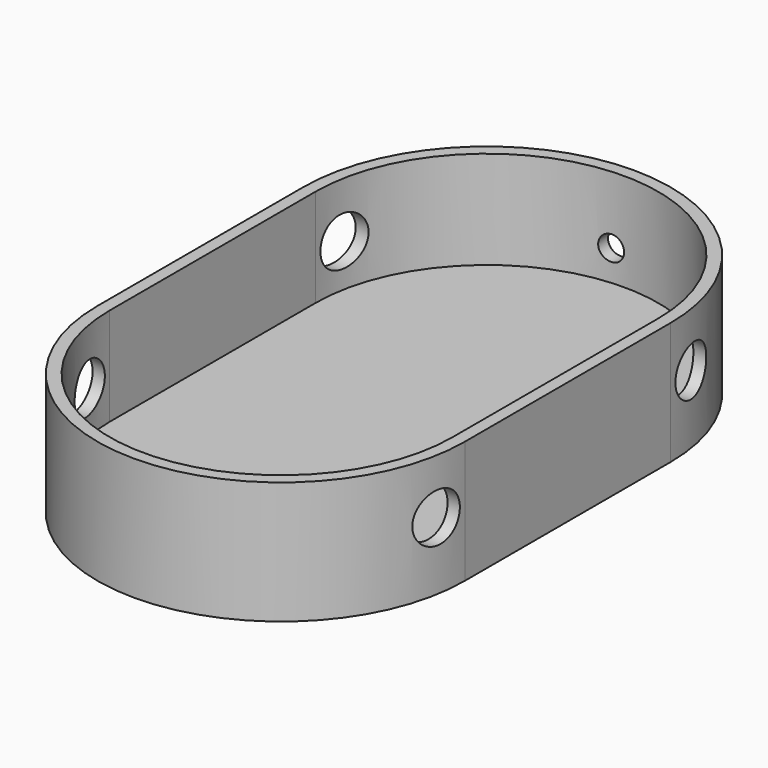
from build123d import *

# Parameters (mm, degrees)
CYLINDER017_R           = 1
CYLINDER017_DEPTH       = 10
CYLINDER017_ROLL_ANGLE  = 90
CYLINDER011_R           = 2
CYLINDER011_DEPTH       = 10
CYLINDER011_PITCH_ANGLE = 90
CYLINDER014_R           = 2
CYLINDER014_DEPTH       = 10
CYLINDER014_PITCH_ANGLE = 90
CYLINDER013_R           = 2
CYLINDER013_DEPTH       = 10
CYLINDER013_PITCH_ANGLE = 90
CYLINDER015_R           = 2
CYLINDER015_DEPTH       = 10
CYLINDER015_PITCH_ANGLE = 90
CYLINDER002_W           = 14
CYLINDER002_H           = 8
CYLINDER002_ANGLE       = 180
CYLINDER001_W           = 15
CYLINDER001_H           = 10
CYLINDER001_ANGLE       = 180
CYLINDER003_W           = 14
CYLINDER003_H           = 8
CYLINDER003_ANGLE       = 180
CYLINDER_W              = 15
CYLINDER_H              = 10
CYLINDER_ANGLE          = 180
BOX001_W                = 28
BOX001_H                = 21
BOX001_DEPTH            = 8
BOX_W                   = 30
BOX_H                   = 21
BOX_DEPTH               = 10
FUSION_PLACEMENT_ANGLE  = 180


with BuildPart() as cilindro017:
    # Cylinder017 → Cylinder017 (new body)
    with BuildSketch(Plane.XY):
        Circle(CYLINDER017_R)
    extrude(amount=CYLINDER017_DEPTH)


with BuildPart() as cilindro017_1:
    # Cylinder017 roll: moved
    add(cilindro017.part.rotate(Axis((0, 0, 0), (1, 0, 0)), CYLINDER017_ROLL_ANGLE))


with BuildPart() as cilindro017_2:
    # Cylinder017 placement: moved
    add(cilindro017_1.part.moved(Location((-14, 90, 38.5))))


with BuildPart() as cilindro011:
    # Cylinder011 → Cylinder011 (new body)
    with BuildSketch(Plane.XY):
        Circle(CYLINDER011_R)
    extrude(amount=CYLINDER011_DEPTH)


with BuildPart() as cilindro011_1:
    # Cylinder011 pitch: moved
    add(cilindro011.part.rotate(Axis((0, 0, 0), (0, 1, 0)), CYLINDER011_PITCH_ANGLE))


with BuildPart() as cilindro011_2:
    # Cylinder011 placement: moved
    add(cilindro011_1.part.moved(Location((-32, 72.5, 39.5))))


with BuildPart() as cilindro014:
    # Cylinder014 → Cylinder014 (new body)
    with BuildSketch(Plane.XY):
        Circle(CYLINDER014_R)
    extrude(amount=CYLINDER014_DEPTH)


with BuildPart() as cilindro014_1:
    # Cylinder014 pitch: moved
    add(cilindro014.part.rotate(Axis((0, 0, 0), (0, 1, 0)), CYLINDER014_PITCH_ANGLE))


with BuildPart() as cilindro014_2:
    # Cylinder014 placement: moved
    add(cilindro014_1.part.moved(Location((-6, 46.5, 39.5))))


with BuildPart() as cilindro013:
    # Cylinder013 → Cylinder013 (new body)
    with BuildSketch(Plane.XY):
        Circle(CYLINDER013_R)
    extrude(amount=CYLINDER013_DEPTH)


with BuildPart() as cilindro013_1:
    # Cylinder013 pitch: moved
    add(cilindro013.part.rotate(Axis((0, 0, 0), (0, 1, 0)), CYLINDER013_PITCH_ANGLE))


with BuildPart() as cilindro013_2:
    # Cylinder013 placement: moved
    add(cilindro013_1.part.moved(Location((-32, 46.5, 39.5))))


with BuildPart() as cilindro015:
    # Cylinder015 → Cylinder015 (new body)
    with BuildSketch(Plane.XY):
        Circle(CYLINDER015_R)
    extrude(amount=CYLINDER015_DEPTH)


with BuildPart() as cilindro015_1:
    # Cylinder015 pitch: moved
    add(cilindro015.part.rotate(Axis((0, 0, 0), (0, 1, 0)), CYLINDER015_PITCH_ANGLE))


with BuildPart() as cilindro015_2:
    # Cylinder015 placement: moved
    add(cilindro015_1.part.moved(Location((-5, 72.5, 39.5))))


with BuildPart() as cilindro002:
    # Cylinder002 → Cylinder002 (revolve)
    with BuildSketch(Plane(origin=(16, 49, -36), x_dir=(1, 0, 0), z_dir=(0, 1, 0))):
        with Locations((7, 4)):
            Rectangle(CYLINDER002_W, CYLINDER002_H)
    revolve(axis=Axis((16, 49, -36), (0, 0, -1)), revolution_arc=CYLINDER002_ANGLE)


with BuildPart() as cut001:
    # Cylinder001 → Cylinder001 (revolve)
    with BuildSketch(Plane(origin=(16, 49, -34), x_dir=(1, 0, 0), z_dir=(0, 1, 0))):
        with Locations((7.5, 5)):
            Rectangle(CYLINDER001_W, CYLINDER001_H)
    revolve(axis=Axis((16, 49, -34), (0, 0, -1)), revolution_arc=CYLINDER001_ANGLE)

    # Cut001: cut Cilindro002
    add(cilindro002.part, mode=Mode.SUBTRACT)


with BuildPart() as cut001_1:
    # Cut001 placement: moved
    add(cut001.part.moved(Location((-3, 0, 0))))


with BuildPart() as cilindro003:
    # Cylinder003 → Cylinder003 (revolve)
    with BuildSketch(Plane(origin=(13, 70, -36), x_dir=(-1, 0, 0), z_dir=(0, -1, 0))):
        with Locations((7, 4)):
            Rectangle(CYLINDER003_W, CYLINDER003_H)
    revolve(axis=Axis((13, 70, -36), (0, 0, -1)), revolution_arc=CYLINDER003_ANGLE)


with BuildPart() as cut002:
    # Cylinder → Cylinder (revolve)
    with BuildSketch(Plane(origin=(13, 70, -34), x_dir=(-1, 0, 0), z_dir=(0, -1, 0))):
        with Locations((7.5, 5)):
            Rectangle(CYLINDER_W, CYLINDER_H)
    revolve(axis=Axis((13, 70, -34), (0, 0, -1)), revolution_arc=CYLINDER_ANGLE)

    # Cut002: cut Cilindro003
    add(cilindro003.part, mode=Mode.SUBTRACT)


with BuildPart() as cubo001:
    # Box001 → Box001 (new body)
    with BuildSketch(Plane(origin=(-1, 49, -44), x_dir=(1, 0, 0), z_dir=(0, 0, 1))):
        with Locations((14, 10.5)):
            Rectangle(BOX001_W, BOX001_H)
    extrude(amount=BOX001_DEPTH)


with BuildPart() as cut025:
    # Box → Box (new body)
    with BuildSketch(Plane(origin=(-2, 49, -44), x_dir=(1, 0, 0), z_dir=(0, 0, 1))):
        with Locations((15, 10.5)):
            Rectangle(BOX_W, BOX_H)
    extrude(amount=BOX_DEPTH)

    # Cut: cut Cubo001
    add(cubo001.part, mode=Mode.SUBTRACT)

    # Fusion: union Cut001, Cut002
    add(cut001_1.part)
    add(cut002.part)


with BuildPart() as cut025_1:
    # Fusion placement: moved
    add(cut025.part.rotate(Axis((0, 0, 0), (0, 1, 0)), FUSION_PLACEMENT_ANGLE))

    # Cut021: cut Cilindro015
    add(cilindro015_2.part, mode=Mode.SUBTRACT)

    # Cut022: cut Cilindro013
    add(cilindro013_2.part, mode=Mode.SUBTRACT)

    # Cut023: cut Cilindro014
    add(cilindro014_2.part, mode=Mode.SUBTRACT)

    # Cut024: cut Cilindro011
    add(cilindro011_2.part, mode=Mode.SUBTRACT)

    # Cut025: cut Cilindro017
    add(cilindro017_2.part, mode=Mode.SUBTRACT)


solid = cut025_1.part
